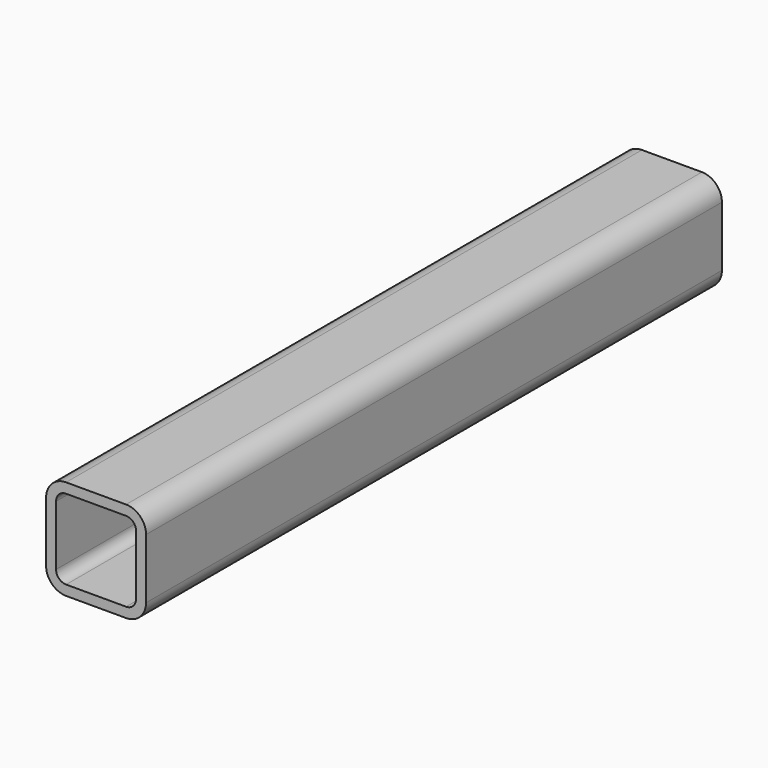
from build123d import *

# Parameters (mm, degrees)
F1_DEPTH = 457.2


with BuildPart() as f1:
    # F0 (on Front) → F1 (new body)
    with BuildSketch(Plane.XZ):
        with BuildLine():
            Line((-157.396815, 102.47369), (-157.396815, 64.37369))
            ThreePointArc((-157.396815, 64.37369), (-153.677071, 55.393434), (-144.696815, 51.67369))
            Line((-144.696815, 51.67369), (-106.596815, 51.67369))
            ThreePointArc((-106.596815, 51.67369), (-97.616559, 55.393434), (-93.896815, 64.37369))
            Line((-93.896815, 64.37369), (-93.896815, 102.47369))
            ThreePointArc((-93.896815, 102.47369), (-97.616559, 111.453946), (-106.596815, 115.17369))
            Line((-106.596815, 115.17369), (-144.696815, 115.17369))
            ThreePointArc((-144.696815, 115.17369), (-153.677071, 111.453946), (-157.396815, 102.47369))
        make_face()
        with BuildLine():
            Line((-106.596815, 58.02369), (-144.696815, 58.02369))
            ThreePointArc((-144.696815, 58.02369), (-149.186943, 59.883562), (-151.046815, 64.37369))
            Line((-151.046815, 64.37369), (-151.046815, 102.47369))
            ThreePointArc((-151.046815, 102.47369), (-149.186943, 106.963818), (-144.696815, 108.82369))
            Line((-144.696815, 108.82369), (-106.596815, 108.82369))
            ThreePointArc((-106.596815, 108.82369), (-102.106687, 106.963818), (-100.246815, 102.47369))
            Line((-100.246815, 102.47369), (-100.246815, 64.37369))
            ThreePointArc((-100.246815, 64.37369), (-102.106687, 59.883562), (-106.596815, 58.02369))
        make_face(mode=Mode.SUBTRACT)
    extrude(amount=F1_DEPTH)


solid = f1.part
